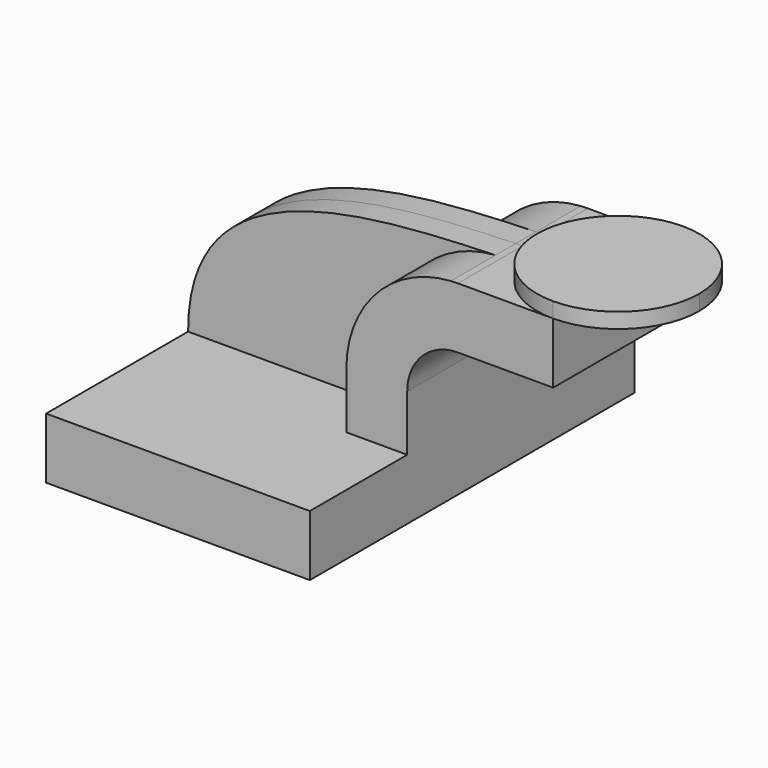
from build123d import *

# Parameters (mm, degrees)
F1_DEPTH = 63.5
F0_W     = 26.635827
F0_H     = 19.05
F2_DEPTH = 25.4
F3_DEPTH = 7.9375
F5_DEPTH = 4.7625


with BuildPart() as f1:
    # F0 (on Front) → F1 (new body, symmetric)
    with BuildSketch(Plane.XZ):
        Polygon((-41.275, 9.525), (-41.275, -9.525), (41.275, -9.525), (41.275, 9.525), (22.225, 9.525), align=None)
    extrude(amount=F1_DEPTH, both=True)

    # F0 (on Front) → F2 (join, symmetric)
    with BuildSketch(Plane.XZ):
        with BuildLine():
            Line((22.225, 9.525), (41.275, 9.525))
            Line((41.275, 9.525), (41.275, 27.0002))
            ThreePointArc((41.275, 27.0002), (45.92468, 38.22552), (57.15, 42.8752))
            Line((57.15, 42.8752), (60.325, 42.8752))
            Line((60.325, 42.8752), (60.325, 61.9252))
            Line((60.325, 61.9252), (57.15, 61.9252))
            add(Edge.make_bspline(
                [(54.920282, 61.853951), (55.666465, 61.878241), (56.409811, 61.90192), (57.15, 61.9252)],
                knots=[109.619199, 109.619199, 109.619199, 109.619199, 111.504536, 111.504536, 111.504536, 111.504536], degree=3))
            ThreePointArc((54.920282, 61.853951), (31.678167, 50.894579), (22.225, 27.0002))
            Line((22.225, 27.0002), (22.225, 9.525))
        make_face()
        with Locations((73.642913, 52.4002)):
            Rectangle(F0_W, F0_H)
    extrude(amount=F2_DEPTH, both=True)

    # F0 (on Front) → F3 (join, symmetric)
    with BuildSketch(Plane.XZ):
        with BuildLine():
            add(Edge.make_bspline(
                [(-41.275, 9.525), (-41.442102, 56.961897), (11.534948, 60.441653), (54.920282, 61.853951)],
                knots=[0, 0, 0, 0, 109.619199, 109.619199, 109.619199, 109.619199], degree=3))
            Line((-41.275, 9.525), (22.225, 9.525))
            Line((22.225, 9.525), (22.225, 27.0002))
            ThreePointArc((22.225, 27.0002), (31.678167, 50.894579), (54.920282, 61.853951))
        make_face()
    extrude(amount=F3_DEPTH, both=True)

    # F4 (on face) → F5 (join)
    with BuildSketch(Plane.XY.offset(61.9252)):
        with BuildLine():
            Line((86.960827, -25.4), (86.960827, 25.4))
            ThreePointArc((86.960827, 25.4), (61.560827, 0), (86.960827, -25.4))
        make_face()
        with BuildLine():
            ThreePointArc((86.960827, -25.4), (104.921339, -17.960512), (112.360827, 0))
            ThreePointArc((112.360827, 0), (104.921339, 17.960512), (86.960827, 25.4))
            Line((86.960827, 25.4), (86.960827, -25.4))
        make_face()
    extrude(amount=F5_DEPTH)


solid = f1.part
